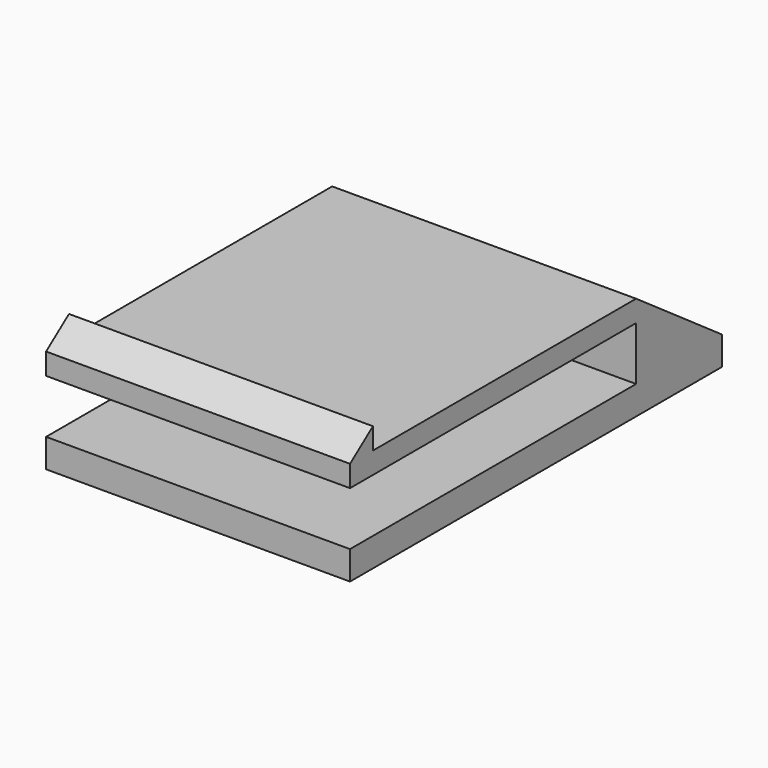
from build123d import *

# Parameters (mm, degrees)
F0_W     = 17
F0_H     = 20
F1_DEPTH = 1.2
F3_DEPTH = 8.5
F5_DEPTH = 8.5


with BuildPart() as f1:
    # F0 (on Top) → F1 (new body)
    with BuildSketch(Plane.XY):
        Rectangle(F0_W, F0_H)
    extrude(amount=F1_DEPTH)

    # F2 (on Right) → F3 (join, symmetric)
    with BuildSketch(Plane.YZ):
        Polygon((-10, 1.2), (-8.4, 1.2), (-8.4, 2.4), align=None)
    extrude(amount=F3_DEPTH, both=True)

    # F4 (on Right) → F5 (join, symmetric)
    with BuildSketch(Plane.YZ):
        Polygon((10, 1.2), (10, 0), (10, -3), (-10, -3), (-10, -4.6), (16, -4.6), (16, -3), align=None)
    extrude(amount=F5_DEPTH, both=True)


solid = f1.part
